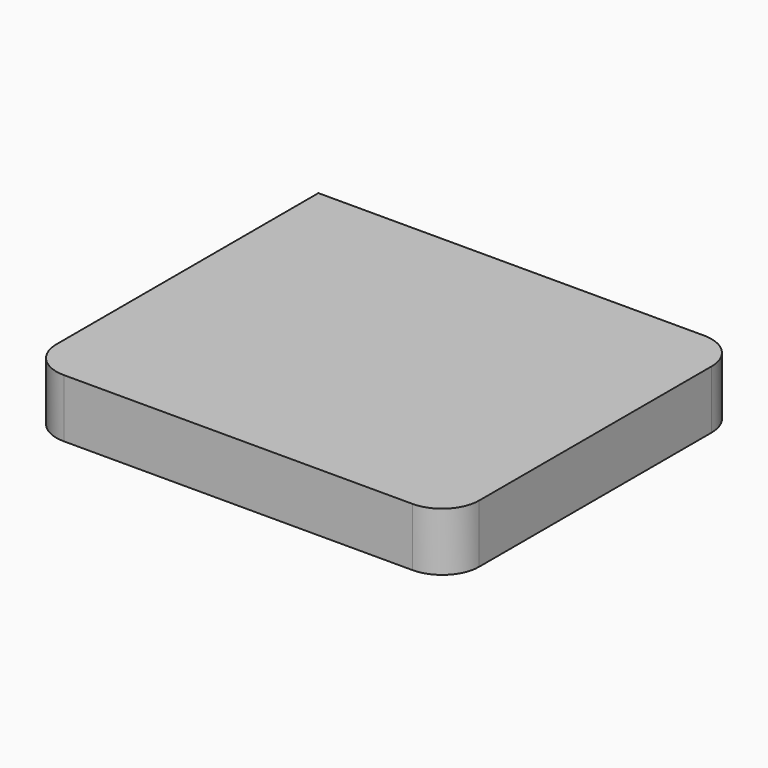
from build123d import *

# Parameters (mm, degrees)
PAD_DEPTH = 4


with BuildPart() as part:
    # Sketch → Pad (new body)
    with BuildSketch(Plane.XY):
        with BuildLine():
            Line((-14.5, 12.5), (11.96, 12.5))
            ThreePointArc((14.5, 9.96), (13.756051, 11.756051), (11.96, 12.5))
            Line((14.5, 9.96), (14.5, -9.96))
            ThreePointArc((11.96, -12.5), (13.756051, -11.756051), (14.5, -9.96))
            Line((11.96, -12.5), (-11.96, -12.5))
            ThreePointArc((-14.5, -9.96), (-13.756051, -11.756051), (-11.96, -12.5))
            Line((-14.5, -9.96), (-14.5, 12.5))
        make_face()
    extrude(amount=PAD_DEPTH)


solid = part.part
